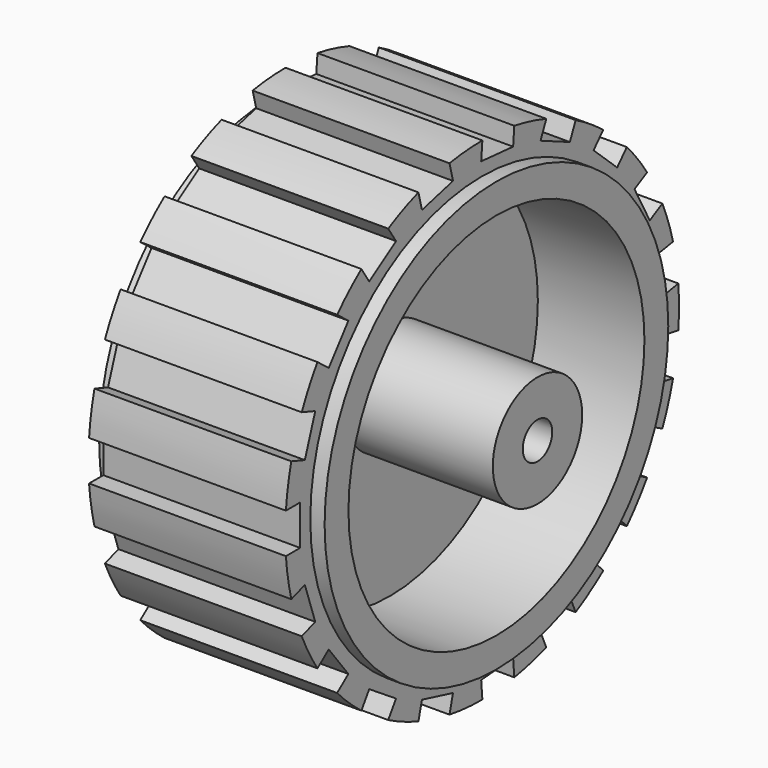
from build123d import *

# Parameters (mm, degrees)
F2_R          = 31
F2_R_2        = 8
F3_DEPTH      = 1
F3_DEPTH_BACK = 1
F4_R          = 9.079941
F4_R_2        = 3
F5_DEPTH      = 25
F7_R          = 40.011924
F7_R_2        = 30.625495
F8_DEPTH      = 32
F9_W          = 9.301454
F9_H          = 6.511014
F10_DEPTH     = 88


with BuildPart() as f1:
    # F0 (on Front) → F1 (revolve)
    with BuildSketch(Plane.XZ):
        Polygon((16, 32.5), (0, 32.5), (-16, 32.5), (-16, 34.919478), (-18.326396, 34.919478), (-18.326396, 30.07248), (0, 30.07248), (18.326396, 30.07248), (18.326396, 34.919478), (16, 34.919478), align=None)
    revolve(axis=Axis((1.106809, 0, 0), (1, 0, 0)))


with BuildPart() as f3:
    # F2 (on Right) → F3 (new body, two sides)
    with BuildSketch(Plane.YZ) as f3_sk:
        Circle(F2_R)
        Circle(F2_R_2, mode=Mode.SUBTRACT)
    extrude(amount=F3_DEPTH)
    extrude(f3_sk.sketch, amount=-F3_DEPTH_BACK)

    # F4 (on Right) → F5 (join)
    with BuildSketch(Plane.YZ):
        Circle(F4_R)
        Circle(F4_R_2, mode=Mode.SUBTRACT)
    extrude(amount=F5_DEPTH)


with BuildPart() as f8:
    # F7 (on offset) → F8 (new body)
    with BuildSketch(Plane.YZ.offset(16)):
        Circle(F7_R)
        Circle(F7_R_2, mode=Mode.SUBTRACT)
    extrude(amount=-F8_DEPTH)

    # F9 (on offset) → F10 (cut)
    with BuildSketch(Plane.YZ.offset(16)):
        with Locations((-41.624017, 0)):
            Rectangle(F9_W, F9_H)
        Polygon((-44.824512, 11.94627), (-36.027037, 8.926093), (-33.912914, 15.084322), (-42.710389, 18.104499), align=None)
        Polygon((-38.516849, 25.853484), (-31.176695, 20.140413), (-27.177547, 25.278517), (-34.517701, 30.991588), align=None)
        Polygon((-28.035287, 36.959071), (-22.947874, 29.172206), (-17.497072, 32.733393), (-22.584485, 40.520258), align=None)
        Polygon((-14.515667, 44.059569), (-12.232295, 35.042738), (-5.920517, 36.641097), (-8.203889, 45.657929), align=None)
        Polygon((0.576951, 46.38553), (-0.191157, 37.115845), (6.297618, 36.57817), (7.065726, 45.847855), align=None)
        Polygon((15.607047, 43.684898), (11.870695, 35.166875), (17.833308, 32.551431), (21.569659, 41.069454), align=None)
        Polygon((28.945877, 36.25033), (22.646174, 29.407028), (27.436482, 24.997239), (33.736185, 31.840541), align=None)
        Polygon((39.147973, 24.887476), (30.967588, 20.460474), (34.066488, 14.734208), (42.246873, 19.161211), align=None)
        Polygon((45.107778, 10.827678), (35.933184, 9.296709), (37.004861, 2.874498), (46.179456, 4.405467), align=None)
        Polygon((46.179456, -4.405467), (37.004861, -2.874498), (35.933184, -9.296709), (45.107778, -10.827678), align=None)
        Polygon((42.246873, -19.161211), (34.066488, -14.734208), (30.967588, -20.460474), (39.147973, -24.887476), align=None)
        Polygon((33.736185, -31.840541), (27.436482, -24.997239), (22.646174, -29.407028), (28.945877, -36.25033), align=None)
        Polygon((21.569659, -41.069454), (17.833308, -32.551431), (11.870695, -35.166875), (15.607047, -43.684898), align=None)
        Polygon((7.065726, -45.847855), (6.297618, -36.57817), (-0.191157, -37.115845), (0.576951, -46.38553), align=None)
        Polygon((-8.203889, -45.657929), (-5.920517, -36.641097), (-12.232295, -35.042738), (-14.515667, -44.059569), align=None)
        Polygon((-22.584485, -40.520258), (-17.497072, -32.733393), (-22.947874, -29.172206), (-28.035287, -36.959071), align=None)
        Polygon((-34.517701, -30.991588), (-27.177547, -25.278517), (-31.176695, -20.140413), (-38.516849, -25.853484), align=None)
        Polygon((-42.710389, -18.104499), (-33.912914, -15.084322), (-36.027037, -8.926093), (-44.824512, -11.94627), align=None)
    extrude(amount=-F10_DEPTH, mode=Mode.SUBTRACT)


solid = Compound([f1.part, f3.part, f8.part])
